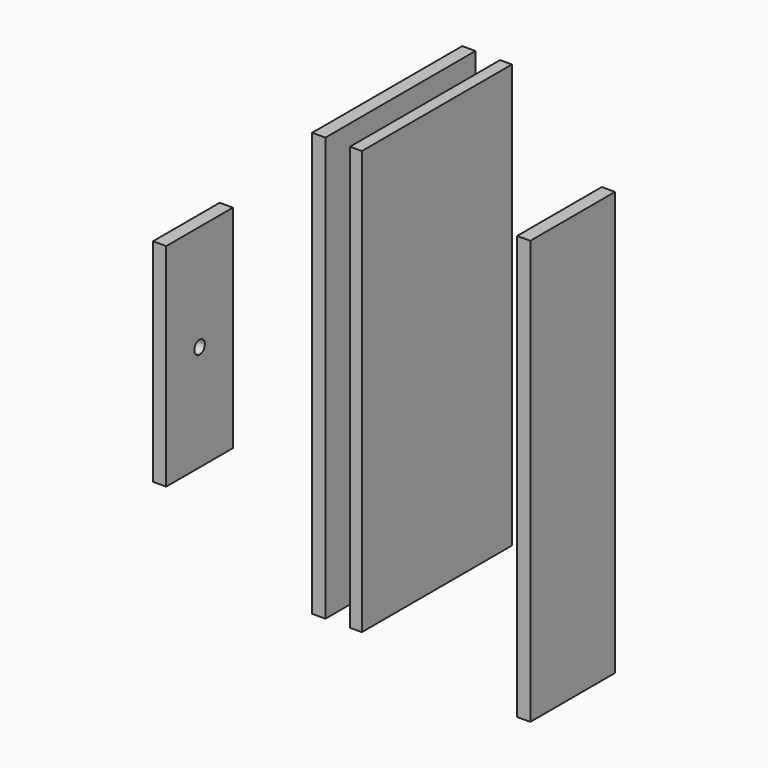
from build123d import *

# Parameters (mm, degrees)
F0_W     = 2.8388235675
F0_H     = 45
F1_DEPTH = 101.6
F0_W_2   = 3.175
F0_W_3   = 1.5875
F0_H_2   = 20
F3_DEPTH = 3.175
F4_DEPTH = 50.8
F6_DEPTH = 3.175
F0_H_3   = 25.4
F7_DEPTH = 101.6


with BuildPart() as f1:
    # F0 (on Top) → F1 (new body)
    with BuildSketch(Plane.XY):
        with Locations((3.3352231996, 16.6228093921)):
            Rectangle(F0_W, F0_H)
    extrude(amount=F1_DEPTH)


with BuildPart() as f1b:
    # F0 (on Top) → F1, piece 2 (new body)
    with BuildSketch(Plane.XY):
        with Locations((-5.573452724, 16.6228093921)):
            Rectangle(F0_W_2, F0_H)
    extrude(amount=F1_DEPTH)

    # F2 (on face) → F3 (cut)
    with BuildSketch(Plane(origin=(-7.160952724, 0, 0), x_dir=(0, -1, 0), z_dir=(-1, 0, 0))):
        Polygon((-10.2728093921, 96.6), (-16.6228093921, 96.6), (-22.9728093921, 96.6), (-22.9728093921, 71.6), (-16.6228093921, 71.6), (-10.2728093921, 71.6), align=None)
        with BuildLine():
            Line((-16.6228093921, 37.6), (-16.6228093921, 39.1875))
            ThreePointArc((-16.6228093921, 39.1875), (-18.2103093921, 37.6), (-16.6228093921, 36.0125))
            Line((-16.6228093921, 36.0125), (-16.6228093921, 37.6))
        make_face()
        with BuildLine():
            ThreePointArc((-15.0353093921, 37.6), (-15.500277377, 38.7225320151), (-16.6228093921, 39.1875))
            Line((-16.6228093921, 39.1875), (-16.6228093921, 37.6))
            Line((-16.6228093921, 37.6), (-16.6228093921, 36.0125))
            ThreePointArc((-16.6228093921, 36.0125), (-15.500277377, 36.4774679849), (-15.0353093921, 37.6))
        make_face()
        with BuildLine():
            ThreePointArc((-15.0353093921, 17.6), (-15.500277377, 18.7225320151), (-16.6228093921, 19.1875))
            Line((-16.6228093921, 19.1875), (-16.6228093921, 17.6))
            Line((-16.6228093921, 17.6), (-16.6228093921, 16.0125))
            ThreePointArc((-16.6228093921, 16.0125), (-15.500277377, 16.4774679849), (-15.0353093921, 17.6))
        make_face()
        with BuildLine():
            Line((-16.6228093921, 17.6), (-16.6228093921, 19.1875))
            ThreePointArc((-16.6228093921, 19.1875), (-18.2103093921, 17.6), (-16.6228093921, 16.0125))
            Line((-16.6228093921, 16.0125), (-16.6228093921, 17.6))
        make_face()
    extrude(amount=-F3_DEPTH, mode=Mode.SUBTRACT)


with BuildPart() as f1c:
    # F0 (on Top) → F1, piece 3 (new body)
    with BuildSketch(Plane.XY):
        with Locations((-61.5249278784, 27.3155884445)):
            Rectangle(F0_W_3, F0_H_2)
        Polygon((-62.3186778784, 37.3155884445), (-63.9061778784, 37.3155884445), (-63.9061778784, 27.3155884445), (-63.9061778784, 17.3155884445), (-62.3186778784, 17.3155884445), align=None)
    extrude(amount=F1_DEPTH)

    # F4 (cut): a face of the model
    f4_faces = [f1c.faces().sort_by_distance(p)[0] for p in [
        (-62.3186778784, 27.3155884445, 101.6),
    ]]
    extrude(f4_faces, amount=-F4_DEPTH, mode=Mode.SUBTRACT)

    # F5 (on face) → F6 (cut)
    with BuildSketch(Plane(origin=(-63.9061778784, 0, 0), x_dir=(0, -1, 0), z_dir=(-1, 0, 0))):
        with BuildLine():
            Line((-27.3206884445, 26.9875), (-27.3206884445, 25.4))
            Line((-27.3206884445, 25.4), (-25.7331884445, 25.4))
            ThreePointArc((-25.7331884445, 25.4), (-26.1981564293, 26.5225320151), (-27.3206884445, 26.9875))
        make_face()
        with BuildLine():
            ThreePointArc((-27.3206884445, 26.9875), (-28.4432204596, 26.5225320151), (-28.9081884445, 25.4))
            Line((-28.9081884445, 25.4), (-27.3206884445, 25.4))
            Line((-27.3206884445, 25.4), (-27.3206884445, 26.9875))
        make_face()
        with BuildLine():
            Line((-27.3206884445, 25.4), (-28.9081884445, 25.4))
            ThreePointArc((-28.9081884445, 25.4), (-28.4432204596, 24.2774679849), (-27.3206884445, 23.8125))
            Line((-27.3206884445, 23.8125), (-27.3206884445, 25.4))
        make_face()
        with BuildLine():
            Line((-27.3206884445, 25.4), (-27.3206884445, 23.8125))
            ThreePointArc((-27.3206884445, 23.8125), (-26.1981564293, 24.2774679849), (-25.7331884445, 25.4))
            Line((-25.7331884445, 25.4), (-27.3206884445, 25.4))
        make_face()
    extrude(amount=-F6_DEPTH, mode=Mode.SUBTRACT)


with BuildPart() as f7:
    # F0 (on Top) → F7 (new body)
    with BuildSketch(Plane.XY):
        with Locations((50.5450655282, -1.8898154005)):
            Rectangle(F0_W_2, F0_H_3)
    extrude(amount=F7_DEPTH)


solid = Compound([f1.part, f1b.part, f1c.part, f7.part])
